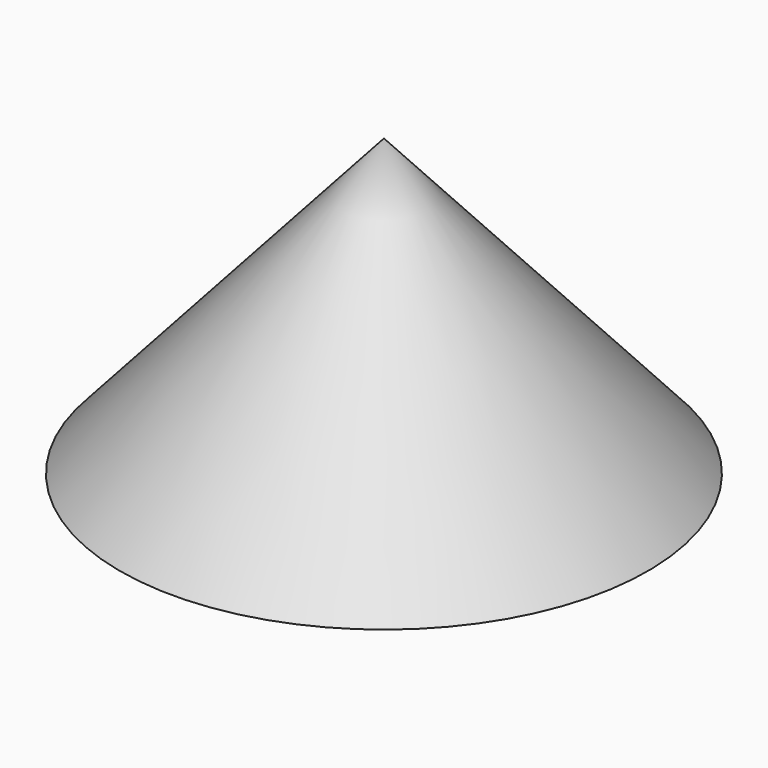
from build123d import *


with BuildPart() as f1:
    # F0 (on Right) → F1 (revolve)
    with BuildSketch(Plane.YZ):
        Polygon((0, 2236.067977), (0, 0), (2000, 0), align=None)
    revolve(axis=Axis((0, 0, 1118.033989), (0, 0, -1)))


solid = f1.part
